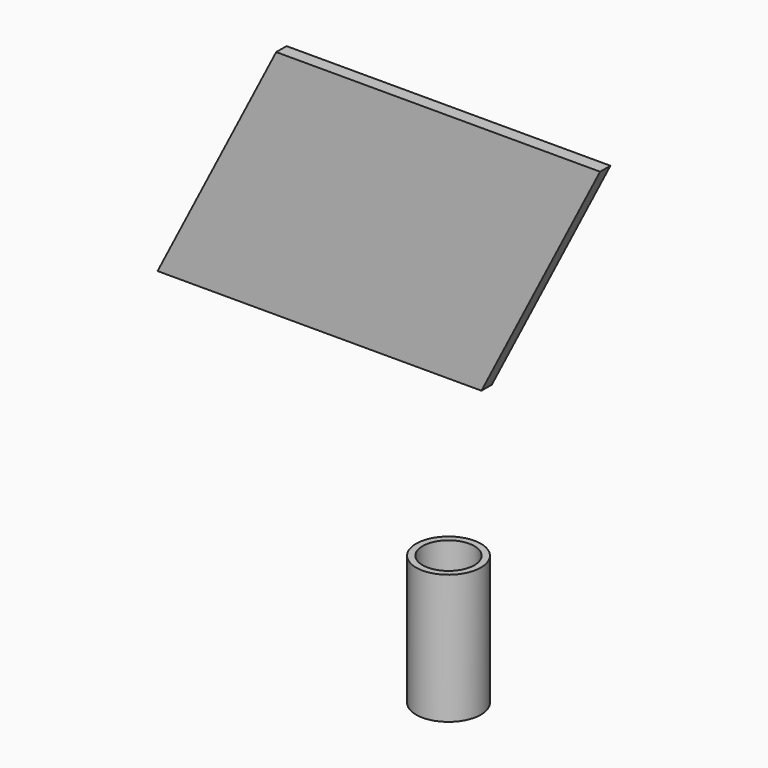
from build123d import *

# Parameters (mm, degrees)
F1_DEPTH = 2
F3_R     = 5
F3_R_2   = 4
F4_DEPTH = 20


with BuildPart() as f1:
    # F0 (on Front) → F1 (new body)
    with BuildSketch(Plane.XZ):
        Polygon((25, 35.72), (0, 35.72), (-25, 35.72), (-43.311901, 0), (6.688099, 0), align=None)
    extrude(amount=F1_DEPTH)


with BuildPart() as f4:
    # F3 (on offset) → F4 (new body)
    with BuildSketch(Plane.XY.offset(-25.4)):
        Circle(F3_R)
        Circle(F3_R_2, mode=Mode.SUBTRACT)
    extrude(amount=-F4_DEPTH)


solid = Compound([f1.part, f4.part])
